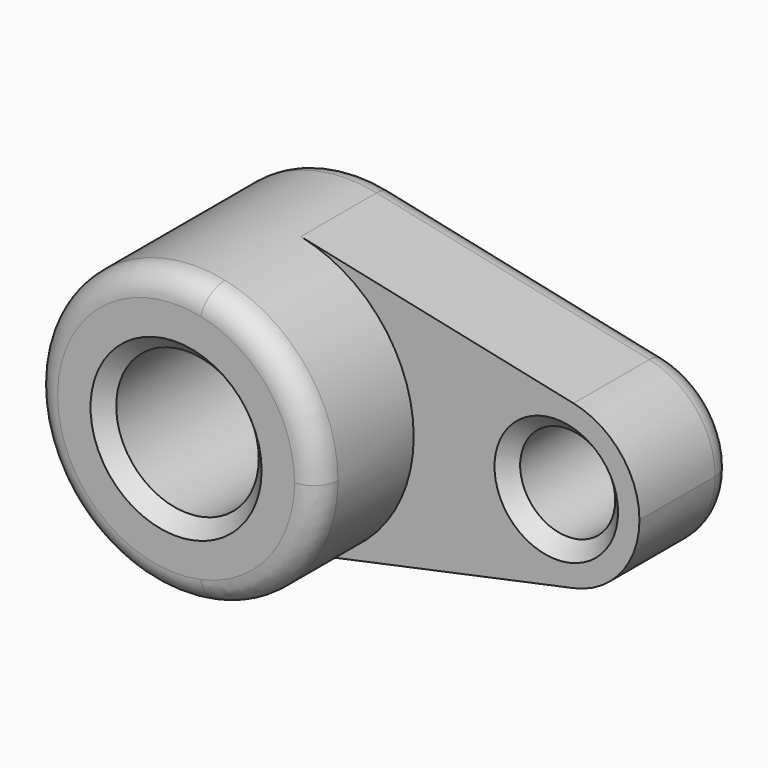
from build123d import *

# Parameters (mm, degrees)
F0_R     = 15
F0_R_2   = 10
F1_DEPTH = 25
F2_DEPTH = 50
F3_R     = 5.08
F4_SIZE  = 3


with BuildPart() as f1:
    # F0 (on Front) → F1 (new body)
    with BuildSketch(Plane.XZ):
        with BuildLine():
            ThreePointArc((6.25, -29.3417364858), (23.3184476327, -18.8745860882), (30, 0))
            ThreePointArc((30, 0), (23.3184476327, 18.8745860882), (6.25, 29.3417364858))
            ThreePointArc((6.25, 29.3417364858), (-30, 0), (6.25, -29.3417364858))
        make_face()
        Circle(F0_R, mode=Mode.SUBTRACT)
        with BuildLine():
            ThreePointArc((6.25, 29.3417364858), (23.3184476327, 18.8745860882), (30, 0))
            ThreePointArc((30, 0), (23.3184476327, -18.8745860882), (6.25, -29.3417364858))
            Line((6.25, -29.3417364858), (63.6458333333, -17.11601295))
            ThreePointArc((63.6458333333, -17.11601295), (42.5, 0), (63.6458333333, 17.11601295))
            Line((63.6458333333, 17.11601295), (6.25, 29.3417364858))
        make_face()
        with BuildLine():
            ThreePointArc((77.5, 0), (73.6024277858, 11.0101752181), (63.6458333333, 17.11601295))
            ThreePointArc((63.6458333333, 17.11601295), (42.5, 0), (63.6458333333, -17.11601295))
            ThreePointArc((63.6458333333, -17.11601295), (73.6024277858, -11.0101752181), (77.5, 0))
        make_face()
        with Locations((60, 0)):
            Circle(F0_R_2, mode=Mode.SUBTRACT)
    extrude(amount=F1_DEPTH)

    # F0 (on Front) → F2 (join)
    with BuildSketch(Plane.XZ):
        with BuildLine():
            ThreePointArc((6.25, -29.3417364858), (23.3184476327, -18.8745860882), (30, 0))
            ThreePointArc((30, 0), (23.3184476327, 18.8745860882), (6.25, 29.3417364858))
            ThreePointArc((6.25, 29.3417364858), (-30, 0), (6.25, -29.3417364858))
        make_face()
        Circle(F0_R, mode=Mode.SUBTRACT)
    extrude(amount=F2_DEPTH)

    # F3
    f3_edges = [f1.edges().sort_by_distance(p)[0] for p in [
        (34.947917, 0, -23.228875),
        (-6.25, -50, 29.341736),
    ]]
    fillet(f3_edges, radius=F3_R)

    # F4
    f4_edges = [f1.edges().sort_by_distance(p)[0] for p in [
        (-15, -50, 0),
        (-5.191667, -50, 24.373202),
        (50, -25, 0),
    ]]
    chamfer(f4_edges, length=F4_SIZE)


solid = f1.part
